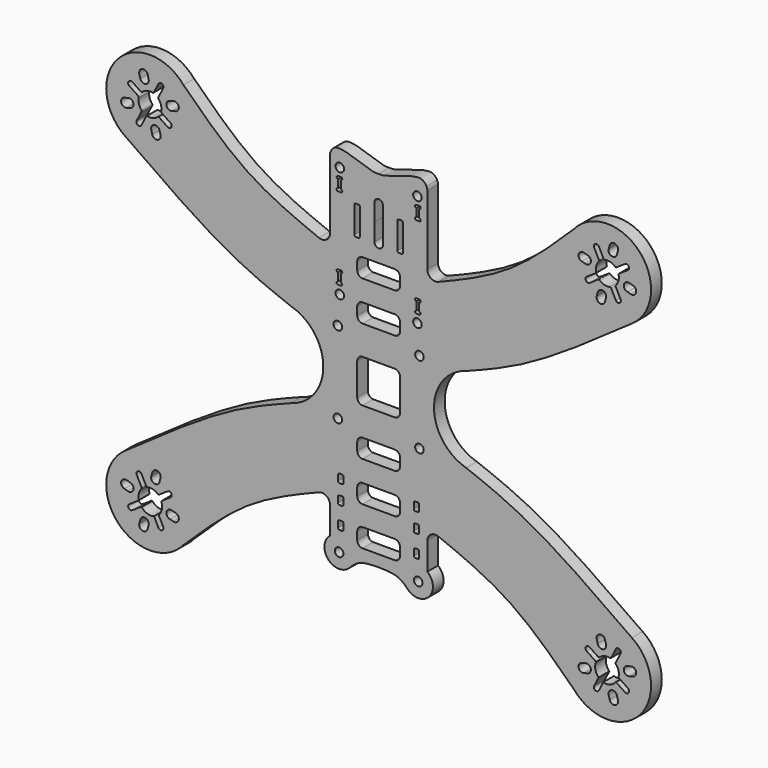
from build123d import *

# Parameters (mm, degrees)
F0_R     = 1.6
F1_DEPTH = 5


with BuildPart() as f1:
    # F0 (on Front) → F1 (new body)
    with BuildSketch(Plane.XZ):
        with BuildLine():
            add(Edge.make_bspline(
                [(-72.9302980372, 75.6716143758), (-65.0051775972, 67.9356963873), (-50.2592195629, 53.4211029524), (-31.1635951823, 45.413890924), (-22.2980027636, 41.8607824489)],
                knots=[0, 0, 0, 0, 0.500003961, 0.93294743, 0.93294743, 0.93294743, 0.93294743], degree=3))
            ThreePointArc((-72.9302980372, 75.6716143758), (-97.5609745069, 76.1254280409), (-94.6231252692, 51.6663763002))
            add(Edge.make_bspline(
                [(-94.6231252692, 51.6663763002), (-81.0944507748, 42.089564661), (-57.9616944121, 25.7673789379), (-40.2611619583, 18.8421896442), (-32.7146360376, 15.9322842933)],
                knots=[0, 0, 0, 0, 0.5688980775, 0.9927811108, 0.9927811108, 0.9927811108, 0.9927811108], degree=3))
            ThreePointArc((-32.7146360376, 15.9322842933), (-20.6776907045, 0), (-32.7146360376, -15.9322842933))
            add(Edge.make_bspline(
                [(-94.6231252692, -51.6663763002), (-81.0944507748, -42.089564661), (-57.9616944121, -25.7673789379), (-40.2611619583, -18.8421896442), (-32.7146360376, -15.9322842933)],
                knots=[0, 0, 0, 0, 0.5688980775, 0.9927811108, 0.9927811108, 0.9927811108, 0.9927811108], degree=3))
            ThreePointArc((-94.6231252692, -51.6663763002), (-97.5609745069, -76.1254280409), (-72.9302980372, -75.6716143758))
            add(Edge.make_bspline(
                [(-72.9302980372, -75.6716143758), (-65.0051775972, -67.9356963873), (-50.2592195629, -53.4211029524), (-31.1635951823, -45.413890924), (-22.2980027636, -41.8607824489)],
                knots=[0, 0, 0, 0, 0.500003961, 0.93294743, 0.93294743, 0.93294743, 0.93294743], degree=3))
            ThreePointArc((-22.2980027636, -41.8607824489), (-19.5009137202, -42.1607043493), (-18.181970343, -44.645467644))
            Line((-18.181970343, -44.645467644), (-18.181970343, -54.8057856718))
            ThreePointArc((-18.181970343, -54.8057856718), (-18.829743277, -62.838872042), (-10.7706676305, -62.8761028007))
            add(Edge.make_bspline(
                [(-10.7706676305, -62.8761028007), (-9.6014223612, -61.7105886744), (-7.2324837879, -59.4626096037), (-2.5924507268, -59.3152008789), (0, -59.2882633209)],
                knots=[0, 0, 0, 0, 0.4478085894, 1, 1, 1, 1], degree=3))
            add(Edge.make_bspline(
                [(10.7706676305, -62.8761028007), (9.6014223612, -61.7105886744), (7.2324837879, -59.4626096037), (2.5924507268, -59.3152008789), (0, -59.2882633209)],
                knots=[0, 0, 0, 0, 0.4478085894, 1, 1, 1, 1], degree=3))
            ThreePointArc((10.7706676305, -62.8761028007), (18.829743277, -62.838872042), (18.181970343, -54.8057856718))
            Line((18.181970343, -54.8057856718), (18.181970343, -44.645467644))
            ThreePointArc((18.181970343, -44.645467644), (19.5009137202, -42.1607043493), (22.2980027636, -41.8607824489))
            add(Edge.make_bspline(
                [(72.9302980372, -75.6716143758), (65.0051775972, -67.9356963873), (50.2592195629, -53.4211029524), (31.1635951823, -45.413890924), (22.2980027636, -41.8607824489)],
                knots=[0, 0, 0, 0, 0.500003961, 0.93294743, 0.93294743, 0.93294743, 0.93294743], degree=3))
            ThreePointArc((72.9302980372, -75.6716143758), (97.5609745069, -76.1254280409), (94.6231252692, -51.6663763002))
            add(Edge.make_bspline(
                [(94.6231252692, -51.6663763002), (81.0944507748, -42.089564661), (57.9616944121, -25.7673789379), (40.2611619583, -18.8421896442), (32.7146360376, -15.9322842933)],
                knots=[0, 0, 0, 0, 0.5688980775, 0.9927811108, 0.9927811108, 0.9927811108, 0.9927811108], degree=3))
            ThreePointArc((32.7146360376, -15.9322842933), (20.6776907045, 0), (32.7146360376, 15.9322842933))
            add(Edge.make_bspline(
                [(94.6231252692, 51.6663763002), (81.0944507748, 42.089564661), (57.9616944121, 25.7673789379), (40.2611619583, 18.8421896442), (32.7146360376, 15.9322842933)],
                knots=[0, 0, 0, 0, 0.5688980775, 0.9927811108, 0.9927811108, 0.9927811108, 0.9927811108], degree=3))
            ThreePointArc((94.6231252692, 51.6663763002), (97.5609745069, 76.1254280409), (72.9302980372, 75.6716143758))
            add(Edge.make_bspline(
                [(72.9302980372, 75.6716143758), (65.0051775972, 67.9356963873), (50.2592195629, 53.4211029524), (31.1635951823, 45.413890924), (22.2980027636, 41.8607824489)],
                knots=[0, 0, 0, 0, 0.500003961, 0.93294743, 0.93294743, 0.93294743, 0.93294743], degree=3))
            ThreePointArc((22.2980027636, 41.8607824489), (19.5009137202, 42.1607043493), (18.181970343, 44.645467644))
            Line((18.181970343, 44.645467644), (18.181970343, 70.479690332))
            ThreePointArc((18.181970343, 70.479690332), (18.0940894462, 71.2004970527), (17.8355954573, 71.8790736794))
            add(Edge.make_bspline(
                [(17.8355954573, 71.8790736794), (17.3769645078, 72.7487671826), (15.3774317169, 75.2955250031), (3.0480392422, 69.9513548926), (0.7509472652, 70.0775182266), (0, 70.1187625527)],
                knots=[0.055015192, 0.055015192, 0.055015192, 0.055015192, 0.262530395, 0.7589122297, 1, 1, 1, 1], degree=3))
            add(Edge.make_bspline(
                [(-17.8355954573, 71.8790736794), (-17.3769645078, 72.7487671826), (-15.3774317169, 75.2955250031), (-3.0480392422, 69.9513548926), (-0.7509472652, 70.0775182266), (0, 70.1187625527)],
                knots=[0.055015192, 0.055015192, 0.055015192, 0.055015192, 0.262530395, 0.7589122297, 1, 1, 1, 1], degree=3))
            ThreePointArc((-17.8355954573, 71.8790736794), (-18.0940894462, 71.2004970527), (-18.181970343, 70.479690332))
            Line((-18.181970343, 70.479690332), (-18.181970343, 44.645467644))
            ThreePointArc((-18.181970343, 44.645467644), (-19.5009137202, 42.1607043493), (-22.2980027636, 41.8607824489))
        make_face()
        with BuildLine():
            Line((-89.409100976, -73.9460773143), (-89.0595771386, -72.6456296058))
            ThreePointArc((-89.0595771386, -72.6456296058), (-87.0740177918, -71.3637036402), (-85.9780391217, -73.4576498801))
            Line((-85.9780391217, -73.4576498801), (-86.3147691526, -74.7614689019))
            ThreePointArc((-86.3147691526, -74.7614689019), (-88.2716386375, -75.9085583474), (-89.409100976, -73.9460773143))
        make_face(mode=Mode.SUBTRACT)
        with BuildLine():
            ThreePointArc((-94.9942318176, -64.3121449882), (-96.1768079702, -62.3465416161), (-94.1791444194, -61.2189675339))
            Line((-94.1791444194, -61.2189675339), (-92.9410046924, -61.5542820487))
            ThreePointArc((-92.9410046924, -61.5542820487), (-91.6319532629, -63.5441624618), (-93.7516319094, -64.6305335489))
            Line((-93.7516319094, -64.6305335489), (-94.9942318176, -64.3121449882))
        make_face(mode=Mode.SUBTRACT)
        with BuildLine():
            ThreePointArc((-75.8921980587, -66.0377856427), (-74.7096219061, -68.0033890147), (-76.7072854569, -69.1309630969))
            Line((-76.7072854569, -69.1309630969), (-77.9454251839, -68.7956485822))
            ThreePointArc((-77.9454251839, -68.7956485822), (-79.2544766134, -66.8057681691), (-77.1347979669, -65.7193970819))
            Line((-77.1347979669, -65.7193970819), (-75.8921980587, -66.0377856427))
        make_face(mode=Mode.SUBTRACT)
        with BuildLine():
            ThreePointArc((-81.2294078542, -64.0289483613), (-80.9710846245, -64.8502671367), (-80.8837799767, -65.7068144619))
            ThreePointArc((-80.8837799767, -65.7068144619), (-81.2251934295, -67.3748509896), (-82.1945217834, -68.7746050916))
            Line((-82.1945217834, -68.7746050916), (-80.4779189757, -72.1599592487))
            ThreePointArc((-80.4779189757, -72.1599592487), (-80.9870952577, -73.4512255374), (-82.2961717041, -72.9897626766))
            Line((-82.2961717041, -72.9897626766), (-83.9092339691, -69.773197239))
            ThreePointArc((-83.9092339691, -69.773197239), (-86.4515054493, -69.7410997793), (-88.5195498276, -68.2621248046))
            ThreePointArc((-88.5195498276, -68.2621248046), (-88.7243425221, -68.2563161492), (-88.9142729771, -68.3331289765))
            Line((-88.9142729771, -68.3331289765), (-92.0327435534, -70.4240653852))
            ThreePointArc((-92.0327435534, -70.4240653852), (-93.442427652, -70.1157559484), (-93.0763960278, -68.7199462132))
            Line((-93.0763960278, -68.7199462132), (-89.8552590177, -66.580888061))
            ThreePointArc((-89.8552590177, -66.580888061), (-89.669085016, -66.3536777905), (-89.6426335537, -66.0611276477))
            ThreePointArc((-89.6426335537, -66.0611276477), (-89.5934402899, -64.081333788), (-88.6605963529, -62.3343919191))
            ThreePointArc((-88.6605963529, -62.3343919191), (-88.5394431641, -62.066796757), (-88.5894707678, -61.7773446802))
            Line((-88.5894707678, -61.7773446802), (-90.3381782895, -58.3286760356))
            ThreePointArc((-90.3381782895, -58.3286760356), (-89.9688176321, -56.9337435385), (-88.5902581723, -57.3601679542))
            Line((-88.5902581723, -57.3601679542), (-86.9071703406, -60.7163695499))
            ThreePointArc((-86.9071703406, -60.7163695499), (-86.6759252695, -60.9433107662), (-86.3541053151, -60.98084096))
            ThreePointArc((-86.3541053151, -60.98084096), (-84.3495834108, -61.0247399637), (-82.5837336922, -61.9743767147))
            ThreePointArc((-82.5837336922, -61.9743767147), (-82.2852100393, -62.1003141086), (-81.9721568992, -62.0168016543))
            Line((-81.9721568992, -62.0168016543), (-78.853686323, -59.9258652456))
            ThreePointArc((-78.853686323, -59.9258652456), (-77.4871951618, -60.1694448443), (-77.6804804646, -61.5439519945))
            Line((-77.6804804646, -61.5439519945), (-81.0311708587, -63.7690425698))
            ThreePointArc((-81.0311708587, -63.7690425698), (-81.1521285473, -63.8823381392), (-81.2294078542, -64.0289483613))
        make_face(mode=Mode.SUBTRACT)
        with BuildLine():
            Line((-81.4773289004, -56.4038533165), (-81.8268527377, -57.704301025))
            ThreePointArc((-81.8268527377, -57.704301025), (-83.8124120845, -58.9862269906), (-84.9083907547, -56.8922807508))
            Line((-84.9083907547, -56.8922807508), (-84.5716607237, -55.588461729))
            ThreePointArc((-84.5716607237, -55.588461729), (-82.6147912389, -54.4413722834), (-81.4773289004, -56.4038533165))
        make_face(mode=Mode.SUBTRACT)
        with Locations((-14.7829509887, -59.1225369607)):
            Circle(F0_R, mode=Mode.SUBTRACT)
        with BuildLine():
            ThreePointArc((-15.15, -49.0659959912), (-15.0035533906, -48.7124426006), (-14.65, -48.5659959912))
            Line((-14.65, -48.5659959912), (-13.65, -48.5659959912))
            ThreePointArc((-13.65, -48.5659959912), (-13.2964466094, -48.7124426006), (-13.15, -49.0659959912))
            Line((-13.15, -49.0659959912), (-13.15, -51.2659959912))
            ThreePointArc((-13.15, -51.2659959912), (-13.2964466094, -51.6195493818), (-13.65, -51.7659959912))
            Line((-13.65, -51.7659959912), (-14.65, -51.7659959912))
            ThreePointArc((-14.65, -51.7659959912), (-15.0035533906, -51.6195493818), (-15.15, -51.2659959912))
            Line((-15.15, -51.2659959912), (-15.15, -49.0659959912))
        make_face(mode=Mode.SUBTRACT)
        with BuildLine():
            ThreePointArc((-15.15, -40.8659959912), (-15.0035533906, -40.5124426006), (-14.65, -40.3659959912))
            Line((-14.65, -40.3659959912), (-13.65, -40.3659959912))
            ThreePointArc((-13.65, -40.3659959912), (-13.2964466094, -40.5124426006), (-13.15, -40.8659959912))
            Line((-13.15, -40.8659959912), (-13.15, -43.0659959912))
            ThreePointArc((-13.15, -43.0659959912), (-13.2964466094, -43.4195493818), (-13.65, -43.5659959912))
            Line((-13.65, -43.5659959912), (-14.65, -43.5659959912))
            ThreePointArc((-14.65, -43.5659959912), (-15.0035533906, -43.4195493818), (-15.15, -43.0659959912))
            Line((-15.15, -43.0659959912), (-15.15, -40.8659959912))
        make_face(mode=Mode.SUBTRACT)
        with BuildLine():
            ThreePointArc((-15.15, -33.6659959912), (-15.0035533906, -33.3124426006), (-14.65, -33.1659959912))
            Line((-14.65, -33.1659959912), (-13.65, -33.1659959912))
            ThreePointArc((-13.65, -33.1659959912), (-13.2964466094, -33.3124426006), (-13.15, -33.6659959912))
            Line((-13.15, -33.6659959912), (-13.15, -35.8659959912))
            ThreePointArc((-13.15, -35.8659959912), (-13.2964466094, -36.2195493818), (-13.65, -36.3659959912))
            Line((-13.65, -36.3659959912), (-14.65, -36.3659959912))
            ThreePointArc((-14.65, -36.3659959912), (-15.0035533906, -36.2195493818), (-15.15, -35.8659959912))
            Line((-15.15, -35.8659959912), (-15.15, -33.6659959912))
        make_face(mode=Mode.SUBTRACT)
        with Locations((-15.25, -15.25)):
            Circle(F0_R, mode=Mode.SUBTRACT)
        with BuildLine():
            ThreePointArc((-8, -49.9853746295), (-7.4142135624, -48.5711610671), (-6, -47.9853746295))
            Line((-6, -47.9853746295), (6, -47.9853746295))
            ThreePointArc((6, -47.9853746295), (7.4142135624, -48.5711610671), (8, -49.9853746295))
            Line((8, -49.9853746295), (8, -52.9853746295))
            ThreePointArc((8, -52.9853746295), (7.4142135624, -54.3995881919), (6, -54.9853746295))
            Line((6, -54.9853746295), (-6, -54.9853746295))
            ThreePointArc((-6, -54.9853746295), (-7.4142135624, -54.3995881919), (-8, -52.9853746295))
            Line((-8, -52.9853746295), (-8, -49.9853746295))
        make_face(mode=Mode.SUBTRACT)
        with Locations((14.7829509887, -59.1225369607)):
            Circle(F0_R, mode=Mode.SUBTRACT)
        with BuildLine():
            ThreePointArc((15.15, -51.2659959912), (15.0035533906, -51.6195493818), (14.65, -51.7659959912))
            Line((14.65, -51.7659959912), (13.65, -51.7659959912))
            ThreePointArc((13.65, -51.7659959912), (13.2964466094, -51.6195493818), (13.15, -51.2659959912))
            Line((13.15, -51.2659959912), (13.15, -49.0659959912))
            ThreePointArc((13.15, -49.0659959912), (13.2964466094, -48.7124426006), (13.65, -48.5659959912))
            Line((13.65, -48.5659959912), (14.65, -48.5659959912))
            ThreePointArc((14.65, -48.5659959912), (15.0035533906, -48.7124426006), (15.15, -49.0659959912))
            Line((15.15, -49.0659959912), (15.15, -51.2659959912))
        make_face(mode=Mode.SUBTRACT)
        with BuildLine():
            Line((13.15, -43.0659959912), (13.15, -40.8659959912))
            ThreePointArc((13.15, -40.8659959912), (13.2964466094, -40.5124426006), (13.65, -40.3659959912))
            Line((13.65, -40.3659959912), (14.65, -40.3659959912))
            ThreePointArc((14.65, -40.3659959912), (15.0035533906, -40.5124426006), (15.15, -40.8659959912))
            Line((15.15, -40.8659959912), (15.15, -43.0659959912))
            ThreePointArc((15.15, -43.0659959912), (15.0035533906, -43.4195493818), (14.65, -43.5659959912))
            Line((14.65, -43.5659959912), (13.65, -43.5659959912))
            ThreePointArc((13.65, -43.5659959912), (13.2964466094, -43.4195493818), (13.15, -43.0659959912))
        make_face(mode=Mode.SUBTRACT)
        with BuildLine():
            ThreePointArc((85.9780391217, -73.4576498801), (87.0740177918, -71.3637036402), (89.0595771386, -72.6456296058))
            Line((89.0595771386, -72.6456296058), (89.409100976, -73.9460773143))
            ThreePointArc((89.409100976, -73.9460773143), (88.2716386375, -75.9085583474), (86.3147691526, -74.7614689019))
            Line((86.3147691526, -74.7614689019), (85.9780391217, -73.4576498801))
        make_face(mode=Mode.SUBTRACT)
        with BuildLine():
            Line((77.9454251839, -68.7956485822), (76.7072854569, -69.1309630969))
            ThreePointArc((76.7072854569, -69.1309630969), (74.7096219061, -68.0033890147), (75.8921980587, -66.0377856427))
            Line((75.8921980587, -66.0377856427), (77.1347979669, -65.7193970819))
            ThreePointArc((77.1347979669, -65.7193970819), (79.2544766134, -66.8057681691), (77.9454251839, -68.7956485822))
        make_face(mode=Mode.SUBTRACT)
        with BuildLine():
            ThreePointArc((82.1945217834, -68.7746050916), (80.968940046, -66.5528840649), (81.2294078542, -64.0289483613))
            ThreePointArc((81.2294078542, -64.0289483613), (81.1521285473, -63.8823381392), (81.0311708587, -63.7690425698))
            Line((81.0311708587, -63.7690425698), (77.6804804646, -61.5439519945))
            ThreePointArc((77.6804804646, -61.5439519945), (77.4871951618, -60.1694448443), (78.853686323, -59.9258652456))
            Line((78.853686323, -59.9258652456), (81.9721568992, -62.0168016543))
            ThreePointArc((81.9721568992, -62.0168016543), (82.2852100393, -62.1003141086), (82.5837336922, -61.9743767147))
            ThreePointArc((82.5837336922, -61.9743767147), (84.3495834108, -61.0247399637), (86.3541053151, -60.98084096))
            ThreePointArc((86.3541053151, -60.98084096), (86.6759252695, -60.9433107662), (86.9071703406, -60.7163695499))
            Line((86.9071703406, -60.7163695499), (88.5902581723, -57.3601679542))
            ThreePointArc((88.5902581723, -57.3601679542), (89.9688176321, -56.9337435385), (90.3381782895, -58.3286760356))
            Line((90.3381782895, -58.3286760356), (88.5894707678, -61.7773446802))
            ThreePointArc((88.5894707678, -61.7773446802), (88.5394431641, -62.066796757), (88.6605963529, -62.3343919191))
            ThreePointArc((88.6605963529, -62.3343919191), (89.4575067639, -63.6564589685), (89.7351143298, -65.1749653154))
            ThreePointArc((89.7351143298, -65.1749653154), (89.7119315245, -65.6204527937), (89.6426335537, -66.0611276477))
            ThreePointArc((89.6426335537, -66.0611276477), (89.669085016, -66.3536777905), (89.8552590177, -66.580888061))
            Line((89.8552590177, -66.580888061), (93.0763960278, -68.7199462132))
            ThreePointArc((93.0763960278, -68.7199462132), (93.442427652, -70.1157559484), (92.0327435534, -70.4240653852))
            Line((92.0327435534, -70.4240653852), (88.9142729771, -68.3331289765))
            ThreePointArc((88.9142729771, -68.3331289765), (88.7243425221, -68.2563161492), (88.5195498276, -68.2621248046))
            ThreePointArc((88.5195498276, -68.2621248046), (86.4515054493, -69.7410997793), (83.9092339691, -69.773197239))
            Line((83.9092339691, -69.773197239), (82.2961717041, -72.9897626766))
            ThreePointArc((82.2961717041, -72.9897626766), (80.9870952577, -73.4512255374), (80.4779189757, -72.1599592487))
            Line((80.4779189757, -72.1599592487), (82.1945217834, -68.7746050916))
        make_face(mode=Mode.SUBTRACT)
        with BuildLine():
            ThreePointArc((94.1791444194, -61.2189675339), (96.1768079702, -62.3465416161), (94.9942318176, -64.3121449882))
            Line((94.9942318176, -64.3121449882), (93.7516319094, -64.6305335489))
            ThreePointArc((93.7516319094, -64.6305335489), (91.6319532629, -63.5441624618), (92.9410046924, -61.5542820487))
            Line((92.9410046924, -61.5542820487), (94.1791444194, -61.2189675339))
        make_face(mode=Mode.SUBTRACT)
        with BuildLine():
            Line((84.5716607237, -55.588461729), (84.9083907547, -56.8922807508))
            ThreePointArc((84.9083907547, -56.8922807508), (83.8124120845, -58.9862269906), (81.8268527377, -57.704301025))
            Line((81.8268527377, -57.704301025), (81.4773289004, -56.4038533165))
            ThreePointArc((81.4773289004, -56.4038533165), (82.6147912389, -54.4413722834), (84.5716607237, -55.588461729))
        make_face(mode=Mode.SUBTRACT)
        with BuildLine():
            ThreePointArc((-8, -35.4853746295), (-7.4142135624, -34.0711610671), (-6, -33.4853746295))
            Line((-6, -33.4853746295), (6, -33.4853746295))
            ThreePointArc((6, -33.4853746295), (7.4142135624, -34.0711610671), (8, -35.4853746295))
            Line((8, -35.4853746295), (8, -38.4853746295))
            ThreePointArc((8, -38.4853746295), (7.4142135624, -39.8995881919), (6, -40.4853746295))
            Line((6, -40.4853746295), (-6, -40.4853746295))
            ThreePointArc((-6, -40.4853746295), (-7.4142135624, -39.8995881919), (-8, -38.4853746295))
            Line((-8, -38.4853746295), (-8, -35.4853746295))
        make_face(mode=Mode.SUBTRACT)
        with BuildLine():
            ThreePointArc((15.15, -35.8659959912), (15.0035533906, -36.2195493818), (14.65, -36.3659959912))
            Line((14.65, -36.3659959912), (13.65, -36.3659959912))
            ThreePointArc((13.65, -36.3659959912), (13.2964466094, -36.2195493818), (13.15, -35.8659959912))
            Line((13.15, -35.8659959912), (13.15, -33.6659959912))
            ThreePointArc((13.15, -33.6659959912), (13.2964466094, -33.3124426006), (13.65, -33.1659959912))
            Line((13.65, -33.1659959912), (14.65, -33.1659959912))
            ThreePointArc((14.65, -33.1659959912), (15.0035533906, -33.3124426006), (15.15, -33.6659959912))
            Line((15.15, -33.6659959912), (15.15, -35.8659959912))
        make_face(mode=Mode.SUBTRACT)
        with BuildLine():
            ThreePointArc((-8, -20.5843978375), (-7.4142135624, -19.1701842751), (-6, -18.5843978375))
            Line((-6, -18.5843978375), (6, -18.5843978375))
            ThreePointArc((6, -18.5843978375), (7.4142135624, -19.1701842751), (8, -20.5843978375))
            Line((8, -20.5843978375), (8, -23.5843978375))
            ThreePointArc((8, -23.5843978375), (7.4142135624, -24.9986113999), (6, -25.5843978375))
            Line((6, -25.5843978375), (-6, -25.5843978375))
            ThreePointArc((-6, -25.5843978375), (-7.4142135624, -24.9986113999), (-8, -23.5843978375))
            Line((-8, -23.5843978375), (-8, -20.5843978375))
        make_face(mode=Mode.SUBTRACT)
        with Locations((15.25, -15.25)):
            Circle(F0_R, mode=Mode.SUBTRACT)
        with Locations((-15.25, 15.25)):
            Circle(F0_R, mode=Mode.SUBTRACT)
        with Locations((-14.5, 25.75)):
            Circle(F0_R, mode=Mode.SUBTRACT)
        with BuildLine():
            ThreePointArc((-15.71, 33.29437), (-15.5635533906, 33.6479233906), (-15.21, 33.79437))
            Line((-15.21, 33.79437), (-14.09, 33.79437))
            ThreePointArc((-14.09, 33.79437), (-13.7364466094, 33.6479233906), (-13.59, 33.29437))
            ThreePointArc((-13.59, 33.29437), (-13.7364466094, 32.9408166094), (-14.09, 32.79437))
            Line((-14.09, 32.79437), (-14.15, 32.79437))
            Line((-14.15, 32.79437), (-14.15, 29.76337))
            Line((-14.15, 29.76337), (-14.09, 29.76337))
            ThreePointArc((-14.09, 29.76337), (-13.7364466094, 29.6169233906), (-13.59, 29.26337))
            ThreePointArc((-13.59, 29.26337), (-13.7364466094, 28.9098166094), (-14.09, 28.76337))
            Line((-14.09, 28.76337), (-15.21, 28.76337))
            ThreePointArc((-15.21, 28.76337), (-15.5635533906, 28.9098166094), (-15.71, 29.26337))
            ThreePointArc((-15.71, 29.26337), (-15.5635533906, 29.6169233906), (-15.21, 29.76337))
            Line((-15.21, 29.76337), (-15.15, 29.76337))
            Line((-15.15, 29.76337), (-15.15, 32.79437))
            Line((-15.15, 32.79437), (-15.21, 32.79437))
            ThreePointArc((-15.21, 32.79437), (-15.5635533906, 32.9408166094), (-15.71, 33.29437))
        make_face(mode=Mode.SUBTRACT)
        with BuildLine():
            Line((-81.8268527377, 57.704301025), (-81.4773289004, 56.4038533165))
            ThreePointArc((-81.4773289004, 56.4038533165), (-82.6147912389, 54.4413722834), (-84.5716607237, 55.588461729))
            Line((-84.5716607237, 55.588461729), (-84.9083907547, 56.8922807508))
            ThreePointArc((-84.9083907547, 56.8922807508), (-83.8124120845, 58.9862269906), (-81.8268527377, 57.704301025))
        make_face(mode=Mode.SUBTRACT)
        with BuildLine():
            ThreePointArc((-93.7516319094, 64.6305335489), (-91.6319532629, 63.5441624618), (-92.9410046924, 61.5542820487))
            Line((-92.9410046924, 61.5542820487), (-94.1791444194, 61.2189675339))
            ThreePointArc((-94.1791444194, 61.2189675339), (-96.1768079702, 62.3465416161), (-94.9942318176, 64.3121449882))
            Line((-94.9942318176, 64.3121449882), (-93.7516319094, 64.6305335489))
        make_face(mode=Mode.SUBTRACT)
        with BuildLine():
            ThreePointArc((-88.6605963529, 62.3343919191), (-89.5934402899, 64.081333788), (-89.6426335537, 66.0611276477))
            ThreePointArc((-89.6426335537, 66.0611276477), (-89.669085016, 66.3536777905), (-89.8552590177, 66.580888061))
            Line((-89.8552590177, 66.580888061), (-93.0763960278, 68.7199462132))
            ThreePointArc((-93.0763960278, 68.7199462132), (-93.442427652, 70.1157559484), (-92.0327435534, 70.4240653852))
            Line((-92.0327435534, 70.4240653852), (-88.9142729771, 68.3331289765))
            ThreePointArc((-88.9142729771, 68.3331289765), (-88.6012198371, 68.2496165222), (-88.3026961842, 68.3755539162))
            ThreePointArc((-88.3026961842, 68.3755539162), (-86.5368464656, 69.3251906671), (-84.5323245613, 69.3690896708))
            ThreePointArc((-84.5323245613, 69.3690896708), (-84.2105046068, 69.4066198646), (-83.9792595358, 69.6335610809))
            Line((-83.9792595358, 69.6335610809), (-82.2961717041, 72.9897626766))
            ThreePointArc((-82.2961717041, 72.9897626766), (-80.9870952577, 73.4512255374), (-80.4779189757, 72.1599592487))
            Line((-80.4779189757, 72.1599592487), (-82.2969591086, 68.5725859506))
            ThreePointArc((-82.2969591086, 68.5725859506), (-82.3469867123, 68.2831338738), (-82.2258335235, 68.0155387117))
            ThreePointArc((-82.2258335235, 68.0155387117), (-81.2929895865, 66.2685968428), (-81.2437963226, 64.2888029831))
            ThreePointArc((-81.2437963226, 64.2888029831), (-81.2173448603, 63.9962528403), (-81.0311708587, 63.7690425698))
            Line((-81.0311708587, 63.7690425698), (-77.6804804646, 61.5439519945))
            ThreePointArc((-77.6804804646, 61.5439519945), (-77.4871951618, 60.1694448443), (-78.853686323, 59.9258652456))
            Line((-78.853686323, 59.9258652456), (-81.9721568992, 62.0168016543))
            ThreePointArc((-81.9721568992, 62.0168016543), (-82.2852100393, 62.1003141086), (-82.5837336922, 61.9743767147))
            ThreePointArc((-82.5837336922, 61.9743767147), (-84.3495834108, 61.0247399637), (-86.3541053151, 60.98084096))
            ThreePointArc((-86.3541053151, 60.98084096), (-86.6759252695, 60.9433107662), (-86.9071703406, 60.7163695499))
            Line((-86.9071703406, 60.7163695499), (-88.5902581723, 57.3601679542))
            ThreePointArc((-88.5902581723, 57.3601679542), (-89.9688176321, 56.9337435385), (-90.3381782895, 58.3286760356))
            Line((-90.3381782895, 58.3286760356), (-88.5894707678, 61.7773446802))
            ThreePointArc((-88.5894707678, 61.7773446802), (-88.5394431641, 62.066796757), (-88.6605963529, 62.3343919191))
        make_face(mode=Mode.SUBTRACT)
        with BuildLine():
            Line((-75.8921980587, 66.0377856427), (-77.1347979669, 65.7193970819))
            ThreePointArc((-77.1347979669, 65.7193970819), (-79.2544766134, 66.8057681691), (-77.9454251839, 68.7956485822))
            Line((-77.9454251839, 68.7956485822), (-76.7072854569, 69.1309630969))
            ThreePointArc((-76.7072854569, 69.1309630969), (-74.7096219061, 68.0033890147), (-75.8921980587, 66.0377856427))
        make_face(mode=Mode.SUBTRACT)
        with BuildLine():
            ThreePointArc((-85.9780391217, 73.4576498801), (-87.0740177918, 71.3637036402), (-89.0595771386, 72.6456296058))
            Line((-89.0595771386, 72.6456296058), (-89.409100976, 73.9460773143))
            ThreePointArc((-89.409100976, 73.9460773143), (-88.2716386375, 75.9085583474), (-86.3147691526, 74.7614689019))
            Line((-86.3147691526, 74.7614689019), (-85.9780391217, 73.4576498801))
        make_face(mode=Mode.SUBTRACT)
        with BuildLine():
            Line((-7.5507846326, 46.5954057872), (-8.5507846326, 46.5954057872))
            ThreePointArc((-8.5507846326, 46.5954057872), (-8.9043380232, 46.7418523966), (-9.0507846326, 47.0954057872))
            Line((-9.0507846326, 47.0954057872), (-9.0507846326, 57.0954057872))
            ThreePointArc((-9.0507846326, 57.0954057872), (-8.9043380232, 57.4489591778), (-8.5507846326, 57.5954057872))
            Line((-8.5507846326, 57.5954057872), (-7.5507846326, 57.5954057872))
            ThreePointArc((-7.5507846326, 57.5954057872), (-7.197231242, 57.4489591778), (-7.0507846326, 57.0954057872))
            Line((-7.0507846326, 57.0954057872), (-7.0507846326, 47.0954057872))
            ThreePointArc((-7.0507846326, 47.0954057872), (-7.197231242, 46.7418523966), (-7.5507846326, 46.5954057872))
        make_face(mode=Mode.SUBTRACT)
        with BuildLine():
            Line((-14.15, 60.4703609656), (-14.09, 60.4703609656))
            ThreePointArc((-14.09, 60.4703609656), (-13.7364466094, 60.3239143562), (-13.59, 59.9703609656))
            ThreePointArc((-13.59, 59.9703609656), (-13.7364466094, 59.616807575), (-14.09, 59.4703609656))
            Line((-14.09, 59.4703609656), (-15.21, 59.4703609656))
            ThreePointArc((-15.21, 59.4703609656), (-15.5635533906, 59.616807575), (-15.71, 59.9703609656))
            ThreePointArc((-15.71, 59.9703609656), (-15.5635533906, 60.3239143562), (-15.21, 60.4703609656))
            Line((-15.21, 60.4703609656), (-15.15, 60.4703609656))
            Line((-15.15, 60.4703609656), (-15.15, 63.5013609656))
            Line((-15.15, 63.5013609656), (-15.21, 63.5013609656))
            ThreePointArc((-15.21, 63.5013609656), (-15.5635533906, 63.647807575), (-15.71, 64.0013609656))
            ThreePointArc((-15.71, 64.0013609656), (-15.5635533906, 64.3549143562), (-15.21, 64.5013609656))
            Line((-15.21, 64.5013609656), (-14.09, 64.5013609656))
            ThreePointArc((-14.09, 64.5013609656), (-13.7364466094, 64.3549143562), (-13.59, 64.0013609656))
            ThreePointArc((-13.59, 64.0013609656), (-13.7364466094, 63.647807575), (-14.09, 63.5013609656))
            Line((-14.09, 63.5013609656), (-14.15, 63.5013609656))
            Line((-14.15, 63.5013609656), (-14.15, 60.4703609656))
        make_face(mode=Mode.SUBTRACT)
        with Locations((-14.5, 67.5)):
            Circle(F0_R, mode=Mode.SUBTRACT)
        with BuildLine():
            ThreePointArc((-8, 6), (-7.4142135624, 7.4142135624), (-6, 8))
            Line((-6, 8), (6, 8))
            ThreePointArc((6, 8), (7.4142135624, 7.4142135624), (8, 6))
            Line((8, 6), (8, -6))
            ThreePointArc((8, -6), (7.4142135624, -7.4142135624), (6, -8))
            Line((6, -8), (-6, -8))
            ThreePointArc((-6, -8), (-7.4142135624, -7.4142135624), (-8, -6))
            Line((-8, -6), (-8, 6))
        make_face(mode=Mode.SUBTRACT)
        with Locations((15.25, 15.25)):
            Circle(F0_R, mode=Mode.SUBTRACT)
        with BuildLine():
            ThreePointArc((-8, 23.9200006425), (-7.4142135624, 25.3342142049), (-6, 25.9200006425))
            Line((-6, 25.9200006425), (6, 25.9200006425))
            ThreePointArc((6, 25.9200006425), (7.4142135624, 25.3342142049), (8, 23.9200006425))
            Line((8, 23.9200006425), (8, 20.9200006425))
            ThreePointArc((8, 20.9200006425), (7.4142135624, 19.5057870802), (6, 18.9200006425))
            Line((6, 18.9200006425), (-6, 18.9200006425))
            ThreePointArc((-6, 18.9200006425), (-7.4142135624, 19.5057870802), (-8, 20.9200006425))
            Line((-8, 20.9200006425), (-8, 23.9200006425))
        make_face(mode=Mode.SUBTRACT)
        with Locations((14.5, 25.75)):
            Circle(F0_R, mode=Mode.SUBTRACT)
        with BuildLine():
            ThreePointArc((-8, 38.7803401053), (-7.4142135624, 40.1945536677), (-6, 40.7803401053))
            Line((-6, 40.7803401053), (6, 40.7803401053))
            ThreePointArc((6, 40.7803401053), (7.4142135624, 40.1945536677), (8, 38.7803401053))
            Line((8, 38.7803401053), (8, 35.7803401053))
            ThreePointArc((8, 35.7803401053), (7.4142135624, 34.3661265429), (6, 33.7803401053))
            Line((6, 33.7803401053), (-6, 33.7803401053))
            ThreePointArc((-6, 33.7803401053), (-7.4142135624, 34.3661265429), (-8, 35.7803401053))
            Line((-8, 35.7803401053), (-8, 38.7803401053))
        make_face(mode=Mode.SUBTRACT)
        with BuildLine():
            Line((14.15, 32.79437), (14.09, 32.79437))
            ThreePointArc((14.09, 32.79437), (13.7364466094, 32.9408166094), (13.59, 33.29437))
            ThreePointArc((13.59, 33.29437), (13.7364466094, 33.6479233906), (14.09, 33.79437))
            Line((14.09, 33.79437), (15.21, 33.79437))
            ThreePointArc((15.21, 33.79437), (15.5635533906, 33.6479233906), (15.71, 33.29437))
            ThreePointArc((15.71, 33.29437), (15.5635533906, 32.9408166094), (15.21, 32.79437))
            Line((15.21, 32.79437), (15.15, 32.79437))
            Line((15.15, 32.79437), (15.15, 29.76337))
            Line((15.15, 29.76337), (15.21, 29.76337))
            ThreePointArc((15.21, 29.76337), (15.5635533906, 29.6169233906), (15.71, 29.26337))
            ThreePointArc((15.71, 29.26337), (15.5635533906, 28.9098166094), (15.21, 28.76337))
            Line((15.21, 28.76337), (14.09, 28.76337))
            ThreePointArc((14.09, 28.76337), (13.7364466094, 28.9098166094), (13.59, 29.26337))
            ThreePointArc((13.59, 29.26337), (13.7364466094, 29.6169233906), (14.09, 29.76337))
            Line((14.09, 29.76337), (14.15, 29.76337))
            Line((14.15, 29.76337), (14.15, 32.79437))
        make_face(mode=Mode.SUBTRACT)
        with BuildLine():
            ThreePointArc((1.5999999996, 47.2500340343), (-0.0104831582, 45.6500343431), (-1.5998621829, 47.2709998976))
            Line((-1.5998621829, 47.2709998976), (-1.5998621829, 53.7290001024))
            Line((-1.5998621829, 53.7290001024), (-1.599998413, 60.247746486))
            ThreePointArc((-1.599998413, 60.247746486), (0, 61.85), (1.599998413, 60.247746486))
            Line((1.599998413, 60.247746486), (1.5998621829, 53.7290001024))
            Line((1.5998621829, 53.7290001024), (1.5999999996, 47.2500340343))
        make_face(mode=Mode.SUBTRACT)
        with BuildLine():
            Line((7.5507846326, 57.5954057872), (8.5507846326, 57.5954057872))
            ThreePointArc((8.5507846326, 57.5954057872), (8.9043380232, 57.4489591778), (9.0507846326, 57.0954057872))
            Line((9.0507846326, 57.0954057872), (9.0507846326, 47.0954057872))
            ThreePointArc((9.0507846326, 47.0954057872), (8.9043380232, 46.7418523966), (8.5507846326, 46.5954057872))
            Line((8.5507846326, 46.5954057872), (7.5507846326, 46.5954057872))
            ThreePointArc((7.5507846326, 46.5954057872), (7.197231242, 46.7418523966), (7.0507846326, 47.0954057872))
            Line((7.0507846326, 47.0954057872), (7.0507846326, 57.0954057872))
            ThreePointArc((7.0507846326, 57.0954057872), (7.197231242, 57.4489591778), (7.5507846326, 57.5954057872))
        make_face(mode=Mode.SUBTRACT)
        with BuildLine():
            Line((15.15, 63.5013609656), (15.15, 60.4703609656))
            Line((15.15, 60.4703609656), (15.21, 60.4703609656))
            ThreePointArc((15.21, 60.4703609656), (15.5635533906, 60.3239143562), (15.71, 59.9703609656))
            ThreePointArc((15.71, 59.9703609656), (15.5635533906, 59.616807575), (15.21, 59.4703609656))
            Line((15.21, 59.4703609656), (14.09, 59.4703609656))
            ThreePointArc((14.09, 59.4703609656), (13.7364466094, 59.616807575), (13.59, 59.9703609656))
            ThreePointArc((13.59, 59.9703609656), (13.7364466094, 60.3239143562), (14.09, 60.4703609656))
            Line((14.09, 60.4703609656), (14.15, 60.4703609656))
            Line((14.15, 60.4703609656), (14.15, 63.5013609656))
            Line((14.15, 63.5013609656), (14.09, 63.5013609656))
            ThreePointArc((14.09, 63.5013609656), (13.7364466094, 63.647807575), (13.59, 64.0013609656))
            ThreePointArc((13.59, 64.0013609656), (13.7364466094, 64.3549143562), (14.09, 64.5013609656))
            Line((14.09, 64.5013609656), (15.21, 64.5013609656))
            ThreePointArc((15.21, 64.5013609656), (15.5635533906, 64.3549143562), (15.71, 64.0013609656))
            ThreePointArc((15.71, 64.0013609656), (15.5635533906, 63.647807575), (15.21, 63.5013609656))
            Line((15.21, 63.5013609656), (15.15, 63.5013609656))
        make_face(mode=Mode.SUBTRACT)
        with Locations((14.5, 67.5)):
            Circle(F0_R, mode=Mode.SUBTRACT)
        with BuildLine():
            Line((81.4773289004, 56.4038533165), (81.8268527377, 57.704301025))
            ThreePointArc((81.8268527377, 57.704301025), (83.8124120845, 58.9862269906), (84.9083907547, 56.8922807508))
            Line((84.9083907547, 56.8922807508), (84.5716607237, 55.588461729))
            ThreePointArc((84.5716607237, 55.588461729), (82.6147912389, 54.4413722834), (81.4773289004, 56.4038533165))
        make_face(mode=Mode.SUBTRACT)
        with BuildLine():
            ThreePointArc((89.6426335537, 66.0611276477), (89.7119315245, 65.6204527937), (89.7351143298, 65.1749653154))
            ThreePointArc((89.7351143298, 65.1749653154), (89.4575067639, 63.6564589685), (88.6605963529, 62.3343919191))
            ThreePointArc((88.6605963529, 62.3343919191), (88.5394431641, 62.066796757), (88.5894707678, 61.7773446802))
            Line((88.5894707678, 61.7773446802), (90.3381782895, 58.3286760356))
            ThreePointArc((90.3381782895, 58.3286760356), (89.9688176321, 56.9337435385), (88.5902581723, 57.3601679542))
            Line((88.5902581723, 57.3601679542), (86.9071703406, 60.7163695499))
            ThreePointArc((86.9071703406, 60.7163695499), (86.6759252695, 60.9433107662), (86.3541053151, 60.98084096))
            ThreePointArc((86.3541053151, 60.98084096), (84.3495834108, 61.0247399637), (82.5837336922, 61.9743767147))
            ThreePointArc((82.5837336922, 61.9743767147), (82.2852100393, 62.1003141086), (81.9721568992, 62.0168016543))
            Line((81.9721568992, 62.0168016543), (78.853686323, 59.9258652456))
            ThreePointArc((78.853686323, 59.9258652456), (77.4871951618, 60.1694448443), (77.6804804646, 61.5439519945))
            Line((77.6804804646, 61.5439519945), (81.0311708587, 63.7690425698))
            ThreePointArc((81.0311708587, 63.7690425698), (81.2173448603, 63.9962528403), (81.2437963226, 64.2888029831))
            ThreePointArc((81.2437963226, 64.2888029831), (81.2929895865, 66.2685968428), (82.2258335235, 68.0155387117))
            ThreePointArc((82.2258335235, 68.0155387117), (82.3469867123, 68.2831338738), (82.2969591086, 68.5725859506))
            Line((82.2969591086, 68.5725859506), (80.4779189757, 72.1599592487))
            ThreePointArc((80.4779189757, 72.1599592487), (80.9870952577, 73.4512255374), (82.2961717041, 72.9897626766))
            Line((82.2961717041, 72.9897626766), (83.9792595358, 69.6335610809))
            ThreePointArc((83.9792595358, 69.6335610809), (84.2105046068, 69.4066198646), (84.5323245613, 69.3690896708))
            ThreePointArc((84.5323245613, 69.3690896708), (86.5368464656, 69.3251906671), (88.3026961842, 68.3755539162))
            ThreePointArc((88.3026961842, 68.3755539162), (88.6012198371, 68.2496165222), (88.9142729771, 68.3331289765))
            Line((88.9142729771, 68.3331289765), (92.0327435534, 70.4240653852))
            ThreePointArc((92.0327435534, 70.4240653852), (93.442427652, 70.1157559484), (93.0763960278, 68.7199462132))
            Line((93.0763960278, 68.7199462132), (89.8552590177, 66.580888061))
            ThreePointArc((89.8552590177, 66.580888061), (89.669085016, 66.3536777905), (89.6426335537, 66.0611276477))
        make_face(mode=Mode.SUBTRACT)
        with BuildLine():
            ThreePointArc((75.8921980587, 66.0377856427), (74.7096219061, 68.0033890147), (76.7072854569, 69.1309630969))
            Line((76.7072854569, 69.1309630969), (77.9454251839, 68.7956485822))
            ThreePointArc((77.9454251839, 68.7956485822), (79.2544766134, 66.8057681691), (77.1347979669, 65.7193970819))
            Line((77.1347979669, 65.7193970819), (75.8921980587, 66.0377856427))
        make_face(mode=Mode.SUBTRACT)
        with BuildLine():
            ThreePointArc((94.9942318176, 64.3121449882), (96.1768079702, 62.3465416161), (94.1791444194, 61.2189675339))
            Line((94.1791444194, 61.2189675339), (92.9410046924, 61.5542820487))
            ThreePointArc((92.9410046924, 61.5542820487), (91.6319532629, 63.5441624618), (93.7516319094, 64.6305335489))
            Line((93.7516319094, 64.6305335489), (94.9942318176, 64.3121449882))
        make_face(mode=Mode.SUBTRACT)
        with BuildLine():
            ThreePointArc((89.0595771386, 72.6456296058), (87.0740177918, 71.3637036402), (85.9780391217, 73.4576498801))
            Line((85.9780391217, 73.4576498801), (86.3147691526, 74.7614689019))
            ThreePointArc((86.3147691526, 74.7614689019), (88.2716386375, 75.9085583474), (89.409100976, 73.9460773143))
            Line((89.409100976, 73.9460773143), (89.0595771386, 72.6456296058))
        make_face(mode=Mode.SUBTRACT)
    extrude(amount=F1_DEPTH)


solid = f1.part
